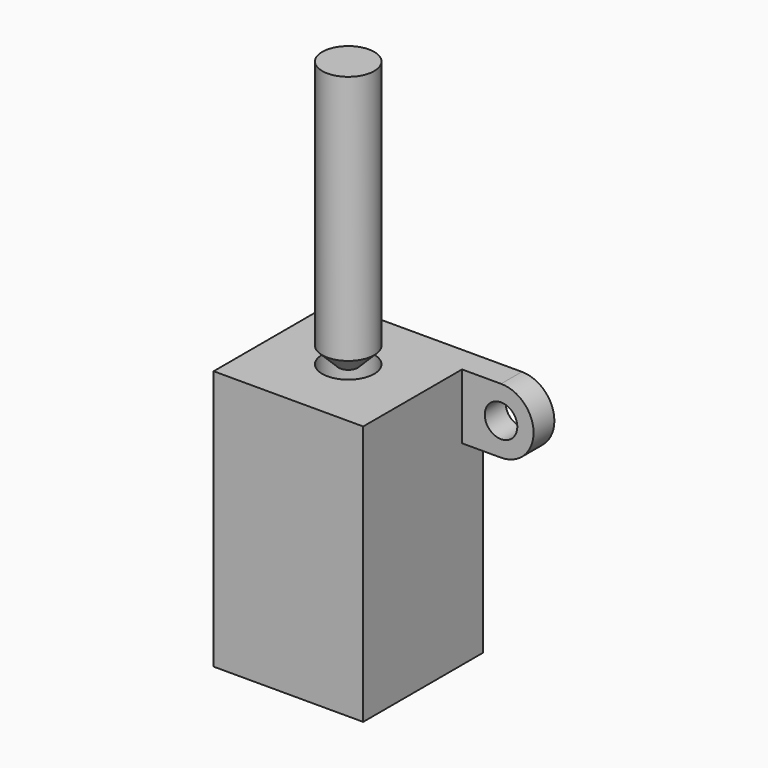
from build123d import *

# Parameters (mm, degrees)
F0_W     = 11.5
F0_H     = 20
F1_DEPTH = 11.5
F2_R     = 1.25
F3_DEPTH = 2
F4_R     = 2
F5_DEPTH = 20.001
F6_DEPTH = 20.5
F7_SIZE2 = 1.27
F7_SIZE  = 1.27


with BuildPart() as f1:
    # F0 (on Front) → F1 (new body)
    with BuildSketch(Plane.XZ):
        Rectangle(F0_W, F0_H)
    extrude(amount=F1_DEPTH)

    # F2 (on face) → F3 (join)
    with BuildSketch(Plane(origin=(0, 0, 0), x_dir=(-1, 0, 0), z_dir=(0, 1, 0))):
        with BuildLine():
            Line((-5.75, 5), (-5.75, 10))
            Line((-5.75, 10), (-8.75, 10))
            ThreePointArc((-8.75, 10), (-11.25, 7.5), (-8.75, 5))
            Line((-8.75, 5), (-5.75, 5))
        make_face()
        with Locations((-8.75, 7.5)):
            Circle(F2_R, mode=Mode.SUBTRACT)
        with BuildLine():
            Line((8.75, -5), (5.75, -5))
            Line((5.75, -5), (5.75, -10))
            Line((5.75, -10), (8.75, -10))
            ThreePointArc((8.75, -10), (11.25, -7.5), (8.75, -5))
        make_face()
        with Locations((8.75, -7.5)):
            Circle(F2_R, mode=Mode.SUBTRACT)
    extrude(amount=-F3_DEPTH)

    # F4 (on face) → F5 (cut, through all)
    with BuildSketch(Plane.XY.offset(10)):
        with Locations((0, -5.75)):
            Circle(F4_R)
    extrude(amount=-F5_DEPTH, mode=Mode.SUBTRACT)


with BuildPart() as f6:
    # F4 (on face) → F6 (new body)
    with BuildSketch(Plane.XY.offset(10)):
        with Locations((0, -5.75)):
            Circle(F4_R)
    extrude(amount=F6_DEPTH)

    # F7
    f7_edges = [f6.edges().sort_by_distance(p)[0] for p in [
        (-2, -5.75, 10),
    ]]
    chamfer(f7_edges, length=F7_SIZE, length2=F7_SIZE2)


solid = Compound([f1.part, f6.part])
